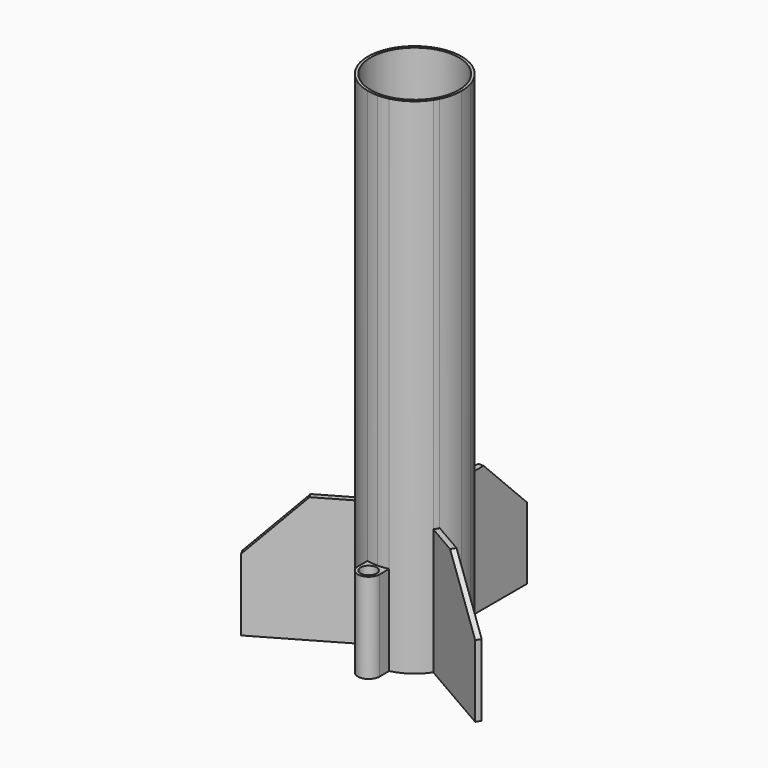
from build123d import *

# Parameters (mm, degrees)
F0_R     = 12.25
F1_DEPTH = 140
F2_DEPTH = 35
F3_SIZE  = 15
F4_COUNT = 3
F0_R_2   = 2.25
F5_DEPTH = 25
F6_START = 62
F0_R_3   = 11
F6_DEPTH = 2


with BuildPart() as f1:
    # F0 (on Top) → F1 (new body)
    with BuildSketch(Plane.XY):
        with BuildLine():
            ThreePointArc((3, -12.6491106407), (10.1980390272, -8.0622577483), (13, 0))
            ThreePointArc((13, 0), (9.4538352006, 8.9232841488), (0.75, 12.9783473524))
            ThreePointArc((0.75, 12.9783473524), (0, 13), (-0.75, 12.9783473524))
            ThreePointArc((-0.75, 12.9783473524), (-12.9501843924, 1.1369803002), (-3, -12.6491106407))
            ThreePointArc((-3, -12.6491106407), (-1.5102254126, -12.9119796779), (2.58e-08, -13))
            ThreePointArc((2.58e-08, -13), (1.5102254382, -12.9119796749), (3, -12.6491106407))
        make_face()
        Circle(F0_R, mode=Mode.SUBTRACT)
    extrude(amount=F1_DEPTH)

    # F0 (on Top) → F2 (join)
    with BuildSketch(Plane.XY):
        with BuildLine():
            ThreePointArc((-0.75, 12.9783473524), (0, 13), (0.75, 12.9783473524))
            Line((0.75, 12.9783473524), (0.75, 37.9783473524))
            Line((0.75, 37.9783473524), (-0.75, 37.9783473524))
            Line((-0.75, 37.9783473524), (-0.75, 12.9783473524))
        make_face()
    extrude(amount=F2_DEPTH)

    # F3
    f3_edges = [f1.edges().sort_by_distance(p)[0] for p in [
        (0, 37.978347, 35),
    ]]
    chamfer(f3_edges, length=F3_SIZE)


with BuildPart() as f4_1:
    # F4: instance of F1
    add(f1.part.rotate(Axis((0, 0, 140), (0, 0, 1)), 1 * 360 / F4_COUNT))


with BuildPart() as f4_2:
    # F4: instance of F1
    add(f1.part.rotate(Axis((0, 0, 140), (0, 0, 1)), 2 * 360 / F4_COUNT))


with BuildPart() as f1_1:
    add(f1.part)

    add(f4_1.part)  # F5 merges F4_1

    add(f4_2.part)  # F5 merges F4_2
    # F0 (on Top) → F5 (join)
    with BuildSketch(Plane.XY):
        with BuildLine():
            ThreePointArc((3, -16), (2.1213203527, -13.8786796655), (2.58e-08, -13))
            ThreePointArc((2.58e-08, -13), (-2.1213203345, -13.8786796473), (-3, -16))
            ThreePointArc((-3, -16), (0, -19), (3, -16))
        make_face()
        with Locations((0, -16)):
            Circle(F0_R_2, mode=Mode.SUBTRACT)
        with BuildLine():
            Line((3, -16), (3, -12.6491106407))
            ThreePointArc((3, -12.6491106407), (1.5102254382, -12.9119796749), (2.58e-08, -13))
            ThreePointArc((2.58e-08, -13), (2.1213203527, -13.8786796655), (3, -16))
        make_face()
        with BuildLine():
            ThreePointArc((-3, -16), (-2.1213203345, -13.8786796473), (2.58e-08, -13))
            ThreePointArc((2.58e-08, -13), (-1.5102254126, -12.9119796779), (-3, -12.6491106407))
            Line((-3, -12.6491106407), (-3, -16))
        make_face()
    extrude(amount=F5_DEPTH)

    # F0 (on Top) → F6 (join)
    with BuildSketch(Plane.XY.offset(F6_START)):
        Circle(F0_R)
        Circle(F0_R_3, mode=Mode.SUBTRACT)
    extrude(amount=F6_DEPTH)


solid = f1_1.part
